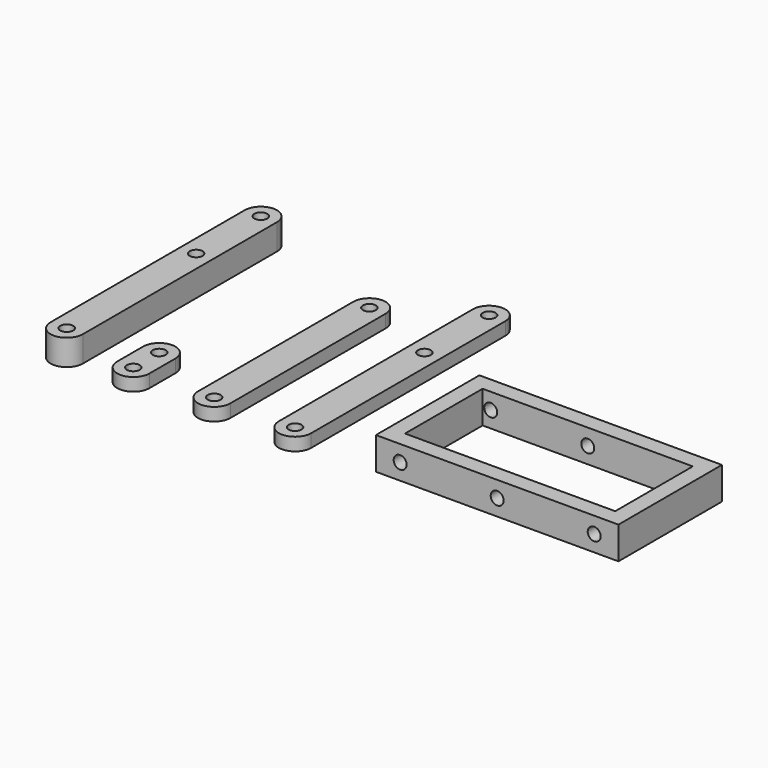
from build123d import *

# Parameters (mm, degrees)
F0_W     = 75
F0_H     = 40
F0_W_2   = 65
F0_H_2   = 30
F1_DEPTH = 10
F2_R     = 2
F3_DEPTH = 40.001
F4_R     = 2
F5_DEPTH = 4
F6_R     = 2
F7_DEPTH = 8


with BuildPart() as f1:
    # F0 (on Top) → F1 (new body)
    with BuildSketch(Plane.XY):
        with Locations((37.5, 20)):
            Rectangle(F0_W, F0_H)
        with Locations((37.5, 20)):
            Rectangle(F0_W_2, F0_H_2, mode=Mode.SUBTRACT)
    extrude(amount=F1_DEPTH)

    # F2 (on Front) → F3 (cut, through all)
    with BuildSketch(Plane.XZ):
        with Locations((7.5, 5)):
            Circle(F2_R)
        with Locations((37.5, 5)):
            Circle(F2_R)
        with Locations((67.5, 5)):
            Circle(F2_R)
    extrude(amount=-F3_DEPTH, mode=Mode.SUBTRACT)


with BuildPart() as f5:
    # F4 (on Top) → F5 (new body)
    with BuildSketch(Plane.XY):
        with BuildLine():
            Line((-70, 0), (-70, 10))
            ThreePointArc((-70, 10), (-75, 15), (-80, 10))
            Line((-80, 10), (-80, 0))
            ThreePointArc((-80, 0), (-75, -5), (-70, 0))
        make_face()
        with Locations((-75, 0)):
            Circle(F4_R, mode=Mode.SUBTRACT)
        with Locations((-75, 10)):
            Circle(F4_R, mode=Mode.SUBTRACT)
        with BuildLine():
            Line((-45, 0), (-45, 60))
            ThreePointArc((-45, 60), (-50, 65), (-55, 60))
            Line((-55, 60), (-55, 0))
            ThreePointArc((-55, 0), (-50, -5), (-45, 0))
        make_face()
        with Locations((-50, 0)):
            Circle(F4_R, mode=Mode.SUBTRACT)
        with Locations((-50, 60)):
            Circle(F4_R, mode=Mode.SUBTRACT)
        with BuildLine():
            Line((-20, 0), (-20, 75))
            ThreePointArc((-20, 75), (-25, 80), (-30, 75))
            Line((-30, 75), (-30, 0))
            ThreePointArc((-30, 0), (-25, -5), (-20, 0))
        make_face()
        with Locations((-25, 0)):
            Circle(F4_R, mode=Mode.SUBTRACT)
        with Locations((-25, 50)):
            Circle(F4_R, mode=Mode.SUBTRACT)
        with Locations((-25, 75)):
            Circle(F4_R, mode=Mode.SUBTRACT)
    extrude(amount=F5_DEPTH)


with BuildPart() as f7:
    # F6 (on Top) → F7 (new body)
    with BuildSketch(Plane.XY):
        with BuildLine():
            Line((-100.595971, 75), (-100.595971, 0))
            ThreePointArc((-100.595971, 0), (-95.595971, -5), (-90.595971, 0))
            Line((-90.595971, 0), (-90.595971, 75))
            ThreePointArc((-90.595971, 75), (-95.595971, 80), (-100.595971, 75))
        make_face()
        with Locations((-95.595971, 0)):
            Circle(F6_R, mode=Mode.SUBTRACT)
        with Locations((-95.595971, 50)):
            Circle(F6_R, mode=Mode.SUBTRACT)
        with Locations((-95.595971, 75)):
            Circle(F6_R, mode=Mode.SUBTRACT)
    extrude(amount=F7_DEPTH)


solid = Compound([f1.part, f5.part, f7.part])
